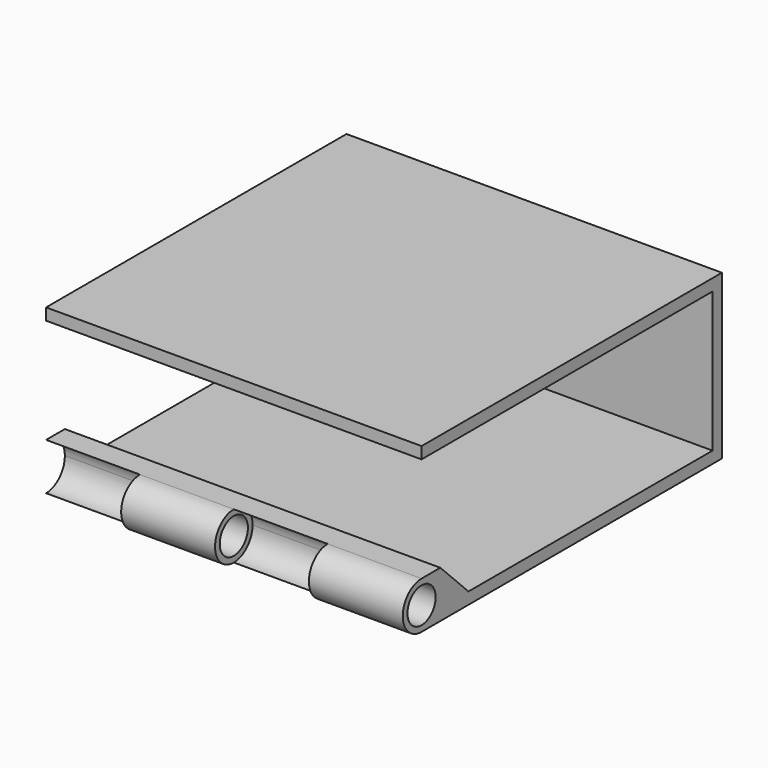
from build123d import *

# Parameters (mm, degrees)
F1_DEPTH = 101.6
F2_DEPTH = 101.6
F3_DEPTH = 76.2
F4_DEPTH = 50.8
F5_DEPTH = 25.4


with BuildPart() as f1:
    # F0 (on Right) → F1 (new body)
    with BuildSketch(Plane.YZ):
        Polygon((-34.925, -3.175), (-44.45, 6.35), (-44.45, 0), (-44.45, -6.35), (50.8, -6.35), (50.8, 6.35), (50.8, 34.7416847944), (50.8, 37.9166847944), (47.625, 37.9166847944), (-50.8, 37.9166847944), (-50.8, 34.7416847944), (47.625, 34.7416847944), (47.625, 6.35), (47.625, -3.175), align=None)
        with BuildLine():
            Line((-44.45, -6.35), (-44.45, 0))
            ThreePointArc((-44.45, 0), (-46.3098719395, -4.4901280605), (-50.8, -6.35))
            Line((-50.8, -6.35), (-44.45, -6.35))
        make_face()
        with BuildLine():
            Line((-44.45, 0), (-44.45, 6.35))
            Line((-44.45, 6.35), (-50.8, 6.35))
            ThreePointArc((-50.8, 6.35), (-46.3098719395, 4.4901280605), (-44.45, 0))
        make_face()
    extrude(amount=F1_DEPTH)

    # F0 (on Right) → F2 (join)
    with BuildSketch(Plane.YZ):
        with BuildLine():
            ThreePointArc((-44.45, 0), (-46.3098719395, 4.4901280605), (-50.8, 6.35))
            Line((-50.8, 6.35), (-50.8, 4.7625))
            ThreePointArc((-50.8, 4.7625), (-47.4324039546, 3.3675960454), (-46.0375, 0))
            ThreePointArc((-46.0375, 0), (-47.4324039546, -3.3675960454), (-50.8, -4.7625))
            Line((-50.8, -4.7625), (-50.8, -6.35))
            ThreePointArc((-50.8, -6.35), (-46.3098719395, -4.4901280605), (-44.45, 0))
        make_face()
        with BuildLine():
            Line((-50.8, 4.7625), (-50.8, 6.35))
            ThreePointArc((-50.8, 6.35), (-57.15, 0), (-50.8, -6.35))
            Line((-50.8, -6.35), (-50.8, -4.7625))
            ThreePointArc((-50.8, -4.7625), (-55.5625, 0), (-50.8, 4.7625))
        make_face()
    extrude(amount=F2_DEPTH)

    # F0 (on Right) → F3 (cut)
    with BuildSketch(Plane.YZ):
        with BuildLine():
            Line((-50.8, 4.7625), (-50.8, 6.35))
            ThreePointArc((-50.8, 6.35), (-57.15, 0), (-50.8, -6.35))
            Line((-50.8, -6.35), (-50.8, -4.7625))
            ThreePointArc((-50.8, -4.7625), (-55.5625, 0), (-50.8, 4.7625))
        make_face()
        with BuildLine():
            ThreePointArc((-44.45, 0), (-46.3098719395, 4.4901280605), (-50.8, 6.35))
            Line((-50.8, 6.35), (-50.8, 4.7625))
            ThreePointArc((-50.8, 4.7625), (-47.4324039546, 3.3675960454), (-46.0375, 0))
            ThreePointArc((-46.0375, 0), (-47.4324039546, -3.3675960454), (-50.8, -4.7625))
            Line((-50.8, -4.7625), (-50.8, -6.35))
            ThreePointArc((-50.8, -6.35), (-46.3098719395, -4.4901280605), (-44.45, 0))
        make_face()
    extrude(amount=F3_DEPTH, mode=Mode.SUBTRACT)

    # F0 (on Right) → F4 (join)
    with BuildSketch(Plane.YZ):
        with BuildLine():
            Line((-50.8, 4.7625), (-50.8, 6.35))
            ThreePointArc((-50.8, 6.35), (-57.15, 0), (-50.8, -6.35))
            Line((-50.8, -6.35), (-50.8, -4.7625))
            ThreePointArc((-50.8, -4.7625), (-55.5625, 0), (-50.8, 4.7625))
        make_face()
        with BuildLine():
            ThreePointArc((-44.45, 0), (-46.3098719395, 4.4901280605), (-50.8, 6.35))
            Line((-50.8, 6.35), (-50.8, 4.7625))
            ThreePointArc((-50.8, 4.7625), (-47.4324039546, 3.3675960454), (-46.0375, 0))
            ThreePointArc((-46.0375, 0), (-47.4324039546, -3.3675960454), (-50.8, -4.7625))
            Line((-50.8, -4.7625), (-50.8, -6.35))
            ThreePointArc((-50.8, -6.35), (-46.3098719395, -4.4901280605), (-44.45, 0))
        make_face()
    extrude(amount=F4_DEPTH)

    # F0 (on Right) → F5 (cut)
    with BuildSketch(Plane.YZ):
        with BuildLine():
            ThreePointArc((-44.45, 0), (-46.3098719395, 4.4901280605), (-50.8, 6.35))
            Line((-50.8, 6.35), (-50.8, 4.7625))
            ThreePointArc((-50.8, 4.7625), (-47.4324039546, 3.3675960454), (-46.0375, 0))
            ThreePointArc((-46.0375, 0), (-47.4324039546, -3.3675960454), (-50.8, -4.7625))
            Line((-50.8, -4.7625), (-50.8, -6.35))
            ThreePointArc((-50.8, -6.35), (-46.3098719395, -4.4901280605), (-44.45, 0))
        make_face()
        with BuildLine():
            Line((-50.8, 4.7625), (-50.8, 6.35))
            ThreePointArc((-50.8, 6.35), (-57.15, 0), (-50.8, -6.35))
            Line((-50.8, -6.35), (-50.8, -4.7625))
            ThreePointArc((-50.8, -4.7625), (-55.5625, 0), (-50.8, 4.7625))
        make_face()
    extrude(amount=F5_DEPTH, mode=Mode.SUBTRACT)


solid = f1.part
